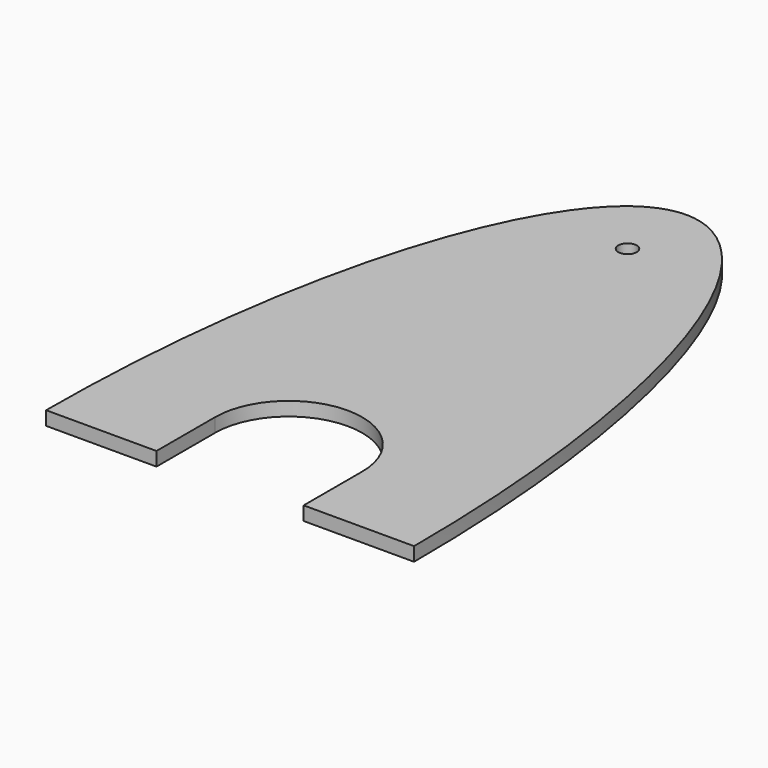
from build123d import *

# Parameters (mm, degrees)
F0_R     = 12.7
F1_DEPTH = 19.05


with BuildPart() as f1:
    # F0 (on Top) → F1 (new body)
    with BuildSketch(Plane.XY):
        with BuildLine():
            Line((101.6, 0), (254, 0))
            add(Edge.make_bspline(
                [(254, 0), (254, 787.4), (0, 787.4), (-254, 787.4), (-254, 0)],
                knots=[1.5707963268, 1.5707963268, 1.5707963268, 3.1415926536, 3.1415926536, 4.7123889804, 4.7123889804, 4.7123889804], degree=2, weights=[1, 0.7071067812, 1, 0.7071067812, 1]))
            Line((-254, 0), (-101.6, 0))
            Line((-101.6, 0), (-101.6, 101.0496690869))
            ThreePointArc((-101.6, 101.0496690869), (0, 202.6496690869), (101.6, 101.0496690869))
            Line((101.6, 101.0496690869), (101.6, 0))
        make_face()
        with Locations((0, 685.8)):
            Circle(F0_R, mode=Mode.SUBTRACT)
    extrude(amount=F1_DEPTH)


solid = f1.part
